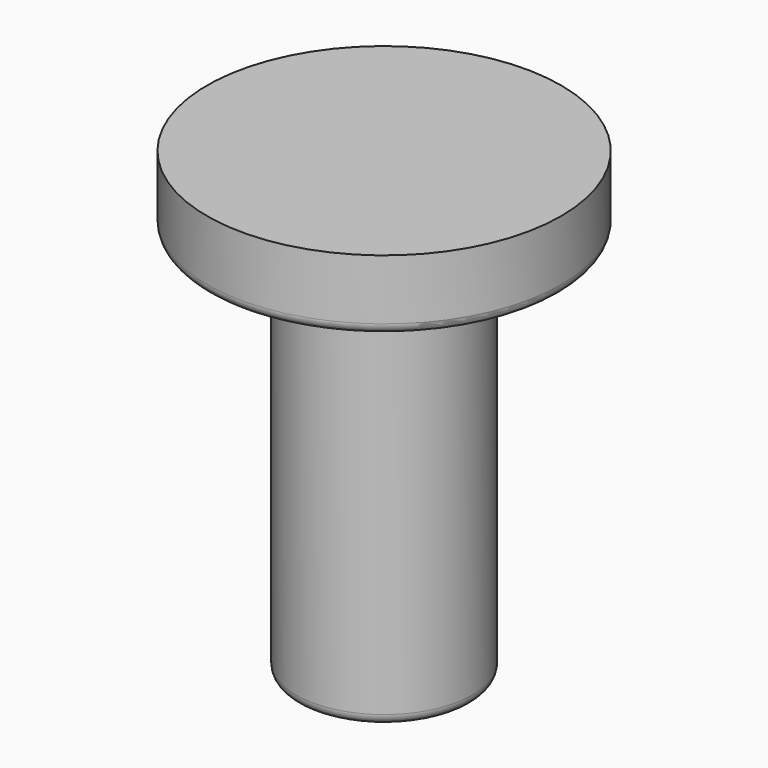
from build123d import *

# Parameters (mm, degrees)
F0_R     = 4.99
F1_DEPTH = 2
F2_R     = 2.485
F3_DEPTH = 11
F4_R     = 1.5
F5_DEPTH = 5
F6_R     = 0.3


with BuildPart() as f1:
    # F0 (on Top) → F1 (new body)
    with BuildSketch(Plane.XY):
        Circle(F0_R)
    extrude(amount=F1_DEPTH)

    # F2 (on face) → F3 (join)
    with BuildSketch(Plane(origin=(0, 0, 0), x_dir=(1, 0, 0), z_dir=(0, 0, -1))):
        Circle(F2_R)
    extrude(amount=F3_DEPTH)

    # F4 (on face) → F5 (cut)
    with BuildSketch(Plane(origin=(0, 0, -11), x_dir=(1, 0, 0), z_dir=(0, 0, -1))):
        Circle(F4_R)
    extrude(amount=-F5_DEPTH, mode=Mode.SUBTRACT)

    # F6
    f6_edges = [f1.edges().sort_by_distance(p)[0] for p in [
        (-2.485, 0, -11),
        (-1.5, 0, -11),
        (-4.99, 0, 0),
    ]]
    fillet(f6_edges, radius=F6_R)


solid = f1.part
